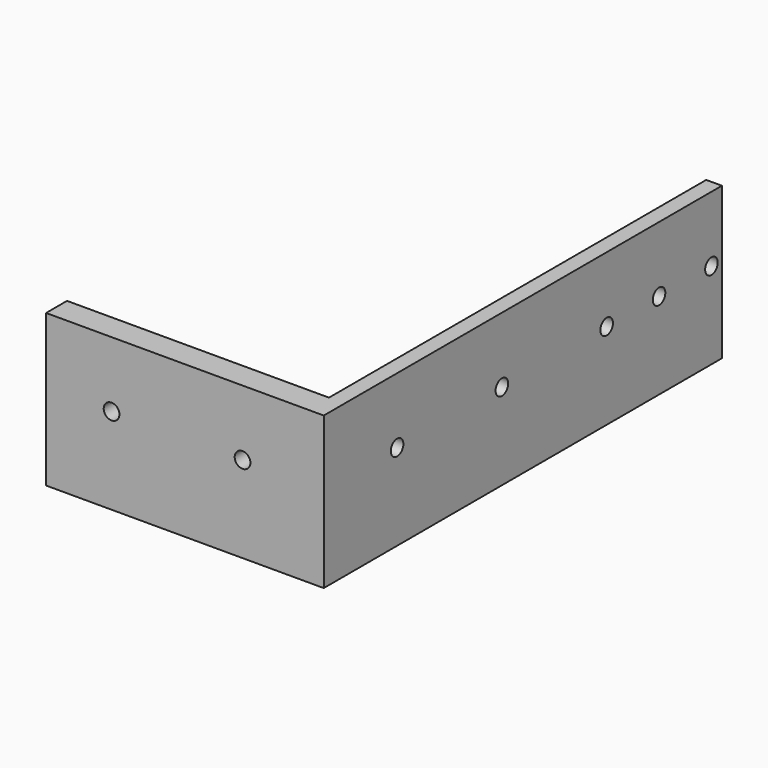
from build123d import *

# Parameters (mm, degrees)
F0_W          = 50
F0_H          = 4
F0_R          = 1.5
F1_DEPTH      = 3
F2_DEPTH      = 50
F2_DEPTH_BACK = 3
F0_W_2        = 40
F3_DEPTH      = 25
F3_DEPTH_BACK = 3
F4_R          = 1.5
F5_DEPTH      = 25


with BuildPart() as f1:
    # F0 (on Right) → F1 (new body)
    with BuildSketch(Plane.YZ):
        with Locations((-20, 2)):
            Rectangle(F0_W, F0_H)
        Polygon((-45, 29), (-45, 4), (5, 4), (45, 4), (45, 29), align=None)
        with Locations((-32.5, 16.5)):
            Circle(F0_R, mode=Mode.SUBTRACT)
        with Locations((-7.5, 16.5)):
            Circle(F0_R, mode=Mode.SUBTRACT)
        with Locations((17.5, 16.5)):
            Circle(F0_R, mode=Mode.SUBTRACT)
        with Locations((30, 16.5)):
            Circle(F0_R, mode=Mode.SUBTRACT)
        with Locations((42.5, 16.5)):
            Circle(F0_R, mode=Mode.SUBTRACT)
    extrude(amount=F1_DEPTH)

    # F0 (on Right) → F2 (join, two sides)
    with BuildSketch(Plane.YZ) as f2_sk:
        Polygon((-45, 0), (-45, 4), (-45, 29), (-50.000000447, 29), (-50.000000447, 0), align=None)
    extrude(amount=-F2_DEPTH)
    extrude(f2_sk.sketch, amount=F2_DEPTH_BACK)

    # F0 (on Right) → F3 (join, two sides)
    with BuildSketch(Plane.YZ) as f3_sk:
        with Locations((25, 2)):
            Rectangle(F0_W_2, F0_H)
    extrude(amount=-F3_DEPTH)
    extrude(f3_sk.sketch, amount=F3_DEPTH_BACK)

    # F4 (on face) → F5 (cut)
    with BuildSketch(Plane.XZ.offset(50.000000447)):
        with Locations((-37.5, 16.5)):
            Circle(F4_R)
        with Locations((-12.5, 16.5)):
            Circle(F4_R)
    extrude(amount=-F5_DEPTH, mode=Mode.SUBTRACT)


solid = f1.part
